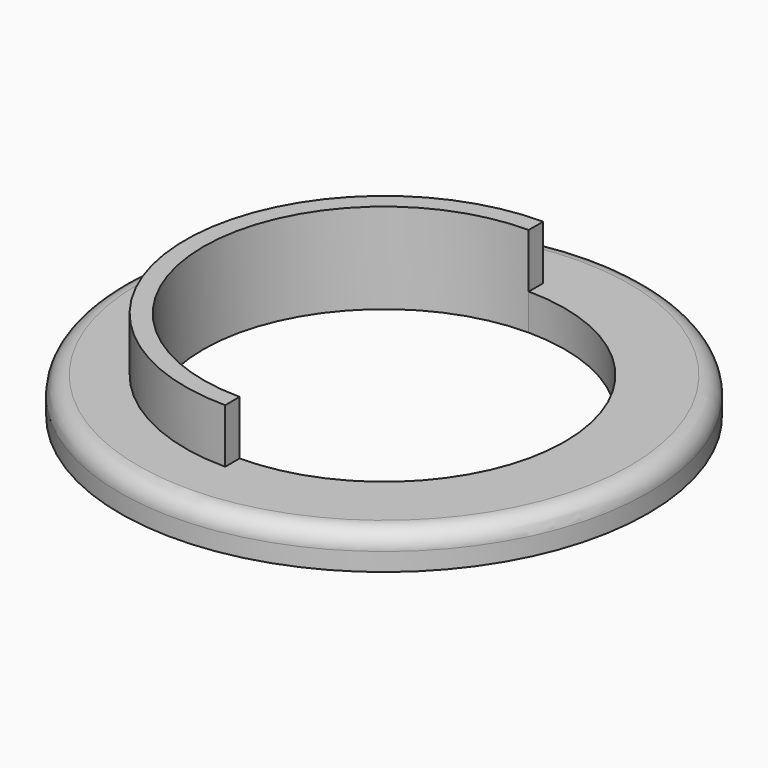
from build123d import *

# Parameters (mm, degrees)
F1_DEPTH = 10
F0_R     = 29.217715
F2_DEPTH = 4
F3_R     = 2
F4_DEPTH = 4


with BuildPart() as f1:
    # F0 (on Top) → F1 (new body)
    with BuildSketch(Plane.XY):
        with BuildLine():
            ThreePointArc((0.009298, -19.999998), (-20, -0.000754), (0.007791, 19.999998))
            Line((0.007791, 19.999998), (0.00857, 21.999998))
            ThreePointArc((0.00857, 21.999998), (-22, -0.000829), (0.010228, -21.999998))
            Line((0.010228, -21.999998), (0.009298, -19.999998))
        make_face()
    extrude(amount=F1_DEPTH)

    # F0 (on Top) → F2 (join)
    with BuildSketch(Plane.XY):
        Circle(F0_R)
        with BuildLine():
            ThreePointArc((0.010228, -21.999998), (-22, -0.000829), (0.00857, 21.999998))
            ThreePointArc((0.00857, 21.999998), (15.559379, 15.553319), (22, 0))
            ThreePointArc((22, 0), (15.559965, -15.552733), (0.010228, -21.999998))
        make_face(mode=Mode.SUBTRACT)
    extrude(amount=F2_DEPTH)

    # F3
    f3_edges = [f1.edges().sort_by_distance(p)[0] for p in [
        (-29.217715, 0, 4),
    ]]
    fillet(f3_edges, radius=F3_R)

    # F0 (on Top) → F4 (join)
    with BuildSketch(Plane.XY):
        with BuildLine():
            ThreePointArc((0.007791, 19.999998), (14.14489, 14.139381), (20, 0))
            ThreePointArc((20, 0), (14.145423, -14.138848), (0.009298, -19.999998))
            Line((0.009298, -19.999998), (0.010228, -21.999998))
            ThreePointArc((0.010228, -21.999998), (15.559965, -15.552733), (22, 0))
            ThreePointArc((22, 0), (15.559379, 15.553319), (0.00857, 21.999998))
            Line((0.00857, 21.999998), (0.007791, 19.999998))
        make_face()
    extrude(amount=F4_DEPTH)


solid = f1.part
